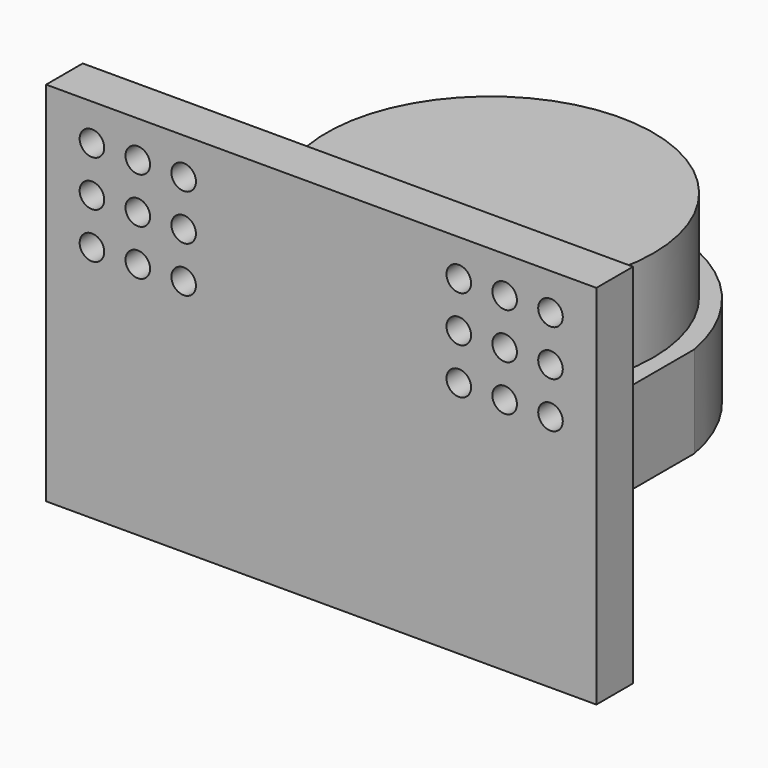
from build123d import *

# Parameters (mm, degrees)
F0_R     = 22.6187
F1_DEPTH = 25.4
F3_W     = 76.2
F3_H     = 50.8
F3_R     = 1.7018
F4_DEPTH = 6.35
F5_R     = 22.6187
F6_DEPTH = 12.7


with BuildPart() as f1:
    # F0 (on Top) → F1 (new body)
    with BuildSketch(Plane.XY):
        Circle(F0_R)
    extrude(amount=F1_DEPTH)


with BuildPart() as f4:
    # F3 (on offset) → F4 (new body)
    with BuildSketch(Plane.XZ.offset(22.86)):
        with Locations((0, 12.7)):
            Rectangle(F3_W, F3_H)
        with Locations((-31.75, 20.32)):
            Circle(F3_R, mode=Mode.SUBTRACT)
        with Locations((-25.4, 20.32)):
            Circle(F3_R, mode=Mode.SUBTRACT)
        with Locations((-19.05, 20.32)):
            Circle(F3_R, mode=Mode.SUBTRACT)
        with Locations((-31.75, 26.67)):
            Circle(F3_R, mode=Mode.SUBTRACT)
        with Locations((-25.4, 26.67)):
            Circle(F3_R, mode=Mode.SUBTRACT)
        with Locations((-31.75, 33.02)):
            Circle(F3_R, mode=Mode.SUBTRACT)
        with Locations((-25.4, 33.02)):
            Circle(F3_R, mode=Mode.SUBTRACT)
        with Locations((-19.05, 26.67)):
            Circle(F3_R, mode=Mode.SUBTRACT)
        with Locations((-19.05, 33.02)):
            Circle(F3_R, mode=Mode.SUBTRACT)
        with Locations((19.05, 20.32)):
            Circle(F3_R, mode=Mode.SUBTRACT)
        with Locations((25.4, 20.32)):
            Circle(F3_R, mode=Mode.SUBTRACT)
        with Locations((31.75, 20.32)):
            Circle(F3_R, mode=Mode.SUBTRACT)
        with Locations((19.05, 26.67)):
            Circle(F3_R, mode=Mode.SUBTRACT)
        with Locations((25.4, 26.67)):
            Circle(F3_R, mode=Mode.SUBTRACT)
        with Locations((31.75, 26.67)):
            Circle(F3_R, mode=Mode.SUBTRACT)
        with Locations((19.05, 33.02)):
            Circle(F3_R, mode=Mode.SUBTRACT)
        with Locations((25.4, 33.02)):
            Circle(F3_R, mode=Mode.SUBTRACT)
        with Locations((31.75, 33.02)):
            Circle(F3_R, mode=Mode.SUBTRACT)
    extrude(amount=F4_DEPTH)


with BuildPart() as f6:
    # F5 (on Top) → F6 (new body)
    with BuildSketch(Plane.XY):
        with BuildLine():
            Line((-24.248691, 4.272898), (-24.248691, -22.86))
            Line((-24.248691, -22.86), (24.889627, -22.86))
            Line((24.889627, -22.86), (24.889627, 4.272898))
            ThreePointArc((24.889627, 4.272898), (0.320468, 24.775638), (-24.248691, 4.272898))
        make_face()
        Circle(F5_R, mode=Mode.SUBTRACT)
    extrude(amount=F6_DEPTH)


solid = Compound([f1.part, f4.part, f6.part])
